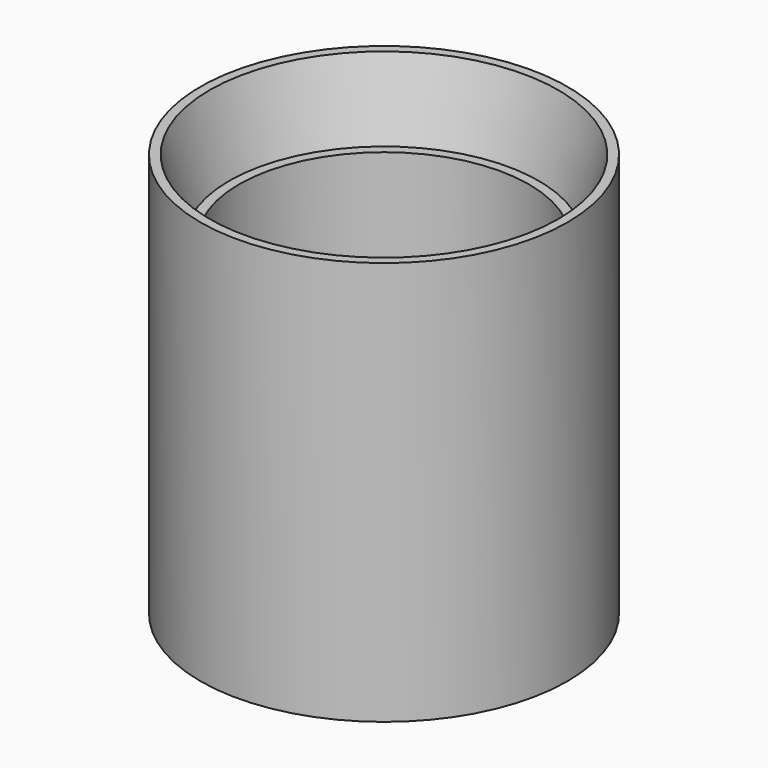
from build123d import *

# Parameters (mm, degrees)
F0_R     = 31.75
F1_DEPTH = 69.85
F2_R     = 30.1625
F3_DEPTH = 12.7
F3_TAPER = 15
F4_R     = 25.0825
F5_DEPTH = 57.151


with BuildPart() as f1:
    # F0 (on Top) → F1 (new body)
    with BuildSketch(Plane.XY):
        Circle(F0_R)
    extrude(amount=F1_DEPTH)

    # F2 (on face) → F3 (cut)
    with BuildSketch(Plane.XY.offset(69.85)):
        Circle(F2_R)
    extrude(amount=-F3_DEPTH, taper=F3_TAPER, mode=Mode.SUBTRACT)

    # F4 (on face) → F5 (cut, through all)
    with BuildSketch(Plane.XY.offset(57.15)):
        Circle(F4_R)
    extrude(amount=-F5_DEPTH, mode=Mode.SUBTRACT)


solid = f1.part
